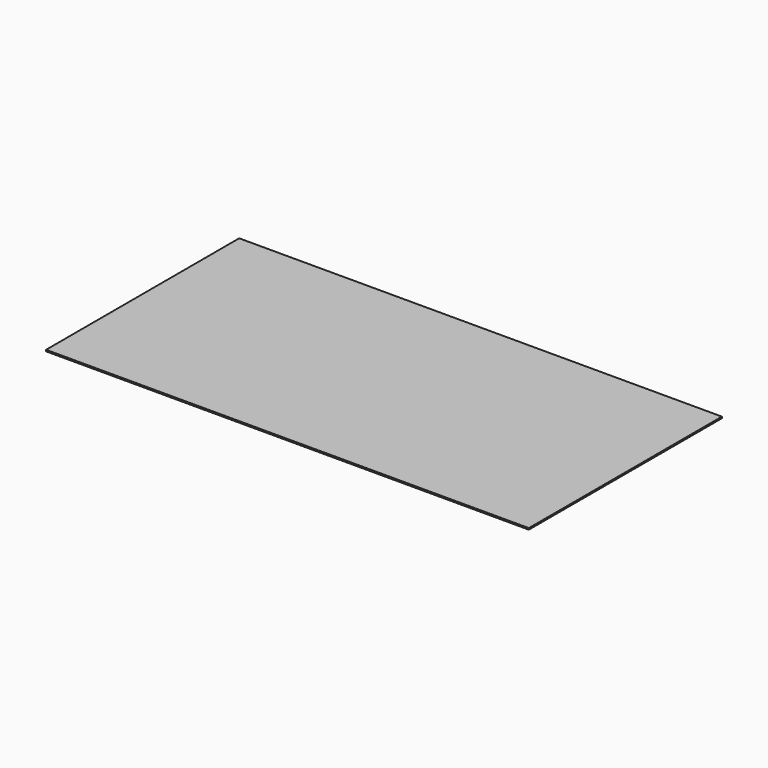
from build123d import *

# Parameters (mm, degrees)
F0_W     = 2000
F0_H     = 1000
F1_DEPTH = 6
F2_W     = 1800
F2_H     = 800
F3_DEPTH = 34


with BuildPart() as f1:
    # F0 (on Top) → F1 (new body)
    with BuildSketch(Plane.XY):
        Rectangle(F0_W, F0_H)
    extrude(amount=F1_DEPTH)

    # F2 (on face) → F3 (join)
    with BuildSketch(Plane(origin=(0, 0, 0), x_dir=(1, 0, 0), z_dir=(0, 0, -1))):
        Rectangle(F2_W, F2_H)
    extrude(amount=F3_DEPTH)


solid = f1.part
